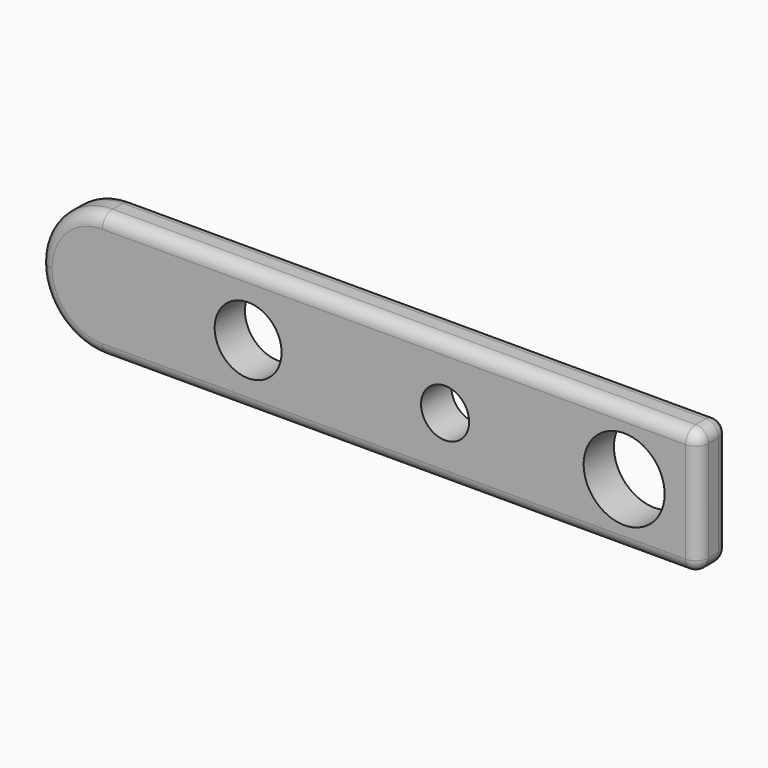
from build123d import *

# Parameters (mm, degrees)
F0_R     = 2.65475
F0_R_2   = 1.90775
F0_R_3   = 3.212764
F1_DEPTH = 3
F2_R     = 1


with BuildPart() as f1:
    # F0 (on Front) → F1 (new body)
    with BuildSketch(Plane.XZ):
        with BuildLine():
            ThreePointArc((0, 5), (1.464466, 1.464466), (5, 0))
            Line((5, 0), (52.271184, 0))
            Line((52.271184, 0), (52.271184, 10))
            Line((52.271184, 10), (5, 10))
            ThreePointArc((5, 10), (1.464466, 8.535534), (0, 5))
        make_face()
        with Locations((16.554475, 5)):
            Circle(F0_R, mode=Mode.SUBTRACT)
        with Locations((32.183714, 5)):
            Circle(F0_R_2, mode=Mode.SUBTRACT)
        with Locations((46.392117, 5)):
            Circle(F0_R_3, mode=Mode.SUBTRACT)
    extrude(amount=F1_DEPTH)

    # F2
    f2_edges = [f1.edges().sort_by_distance(p)[0] for p in [
        (52.271184, -1.5, 10),
        (5, -1.5, 10),
        (28.635592, 0, 10),
        (28.635592, -3, 10),
        (52.271184, -1.5, 0),
        (52.271184, 0, 5),
        (52.271184, -3, 5),
    ]]
    fillet(f2_edges, radius=F2_R)


solid = f1.part
